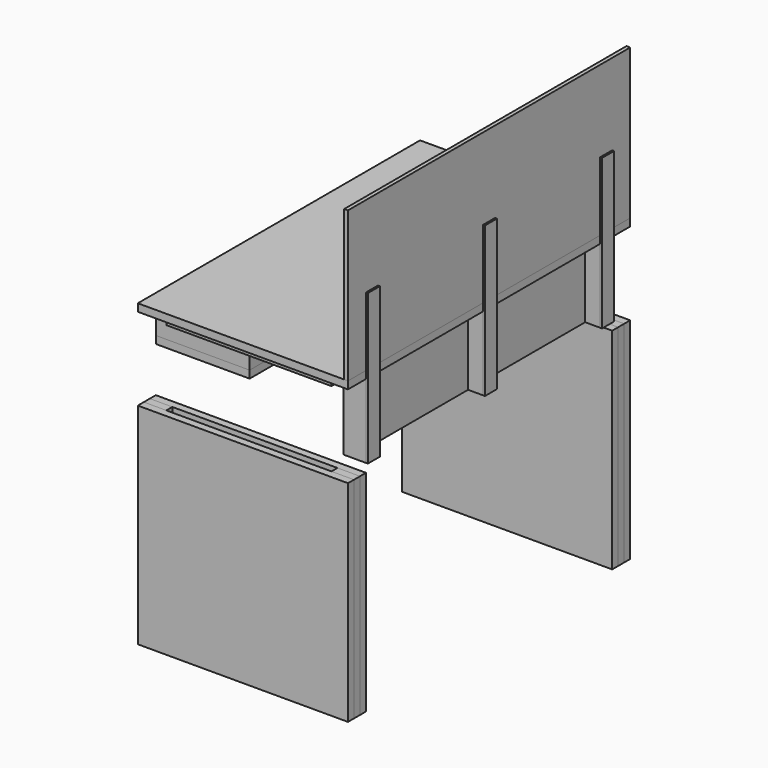
from build123d import *

# Parameters (mm, degrees)
F1_W      = 711.2
F1_H      = 711.2
F2_DEPTH  = 25.4
F5_W      = 76.2
F5_H      = 711.2
F7_DEPTH  = 25.4
F10_W     = 558.8
F10_H     = 25.4
F11_DEPTH = 25.4
F12_W     = 711.2
F12_H     = 1193.8
F12_R     = 25.4
F13_DEPTH = 25.4
F14_W     = 292.1
F14_H     = 25.4
F15_DEPTH = 101.6
F16_W     = 317.5
F16_H     = 1041.4
F17_DEPTH = 25.4
F18_W     = 50.8
F18_H     = 50.8
F19_DEPTH = 250
F20_W     = 1193.8
F20_H     = 508
F21_DEPTH = 12.7
F22_W     = 50.8
F22_H     = 508
F23_DEPTH = 6.35
F24_W     = 38.1
F24_H     = 1041.4
F25_DEPTH = 38.1


with BuildPart() as f2:
    # F1 (on offset) → F2 (new body)
    with BuildSketch(Plane.XZ.offset(571.5)):
        Rectangle(F1_W, F1_H)
    extrude(amount=F2_DEPTH)


with BuildPart() as f6_1:
    # F6: instance of F2
    add(f2.part.mirror(Plane.XZ.offset(558.8)))


with BuildPart() as f7:
    # F5 (on offset) → F7 (new body)
    with BuildSketch(Plane(origin=(0, -571.5, 0), x_dir=(1, 0, 0), z_dir=(0, 1, 0))):
        with Locations((-317.5, 0)):
            Rectangle(F5_W, F5_H)
        with Locations((317.5, 0)):
            Rectangle(F5_W, F5_H)
    extrude(amount=F7_DEPTH)


with BuildPart() as f8_1:
    # F8: instance of F2
    add(f2.part.mirror(Plane.XZ))


with BuildPart() as f8_2:
    # F8: instance of F7
    add(f7.part.mirror(Plane.XZ))


with BuildPart() as f8_3:
    # F8: instance of F6_1
    add(f6_1.part.mirror(Plane.XZ))


with BuildPart() as f11:
    # F10 (on offset) → F11 (new body)
    with BuildSketch(Plane.XY.offset(635)):
        with Locations((0, -558.8)):
            Rectangle(F10_W, F10_H)
        with Locations((0, 558.8)):
            Rectangle(F10_W, F10_H)
    extrude(amount=-F11_DEPTH)

    # F12 (on face) → F13 (join)
    with BuildSketch(Plane.XY.offset(635)):
        Rectangle(F12_W, F12_H)
        with Locations((254, 0)):
            Circle(F12_R, mode=Mode.SUBTRACT)
    extrude(amount=F13_DEPTH)


with BuildPart() as f15:
    # F14 (on face) → F15 (new body)
    with BuildSketch(Plane(origin=(0, 0, 635), x_dir=(1, 0, 0), z_dir=(0, 0, -1))):
        Polygon((-63.5, -520.7), (-38.1, -520.7), (-38.1, 520.7), (-63.5, 520.7), (-63.5, 495.3), (-63.5, 0), (-63.5, -495.3), align=None)
        with Locations((-209.55, -508)):
            Rectangle(F14_W, F14_H)
        with Locations((-209.55, 508)):
            Rectangle(F14_W, F14_H)
    extrude(amount=F15_DEPTH)


with BuildPart() as f17:
    # F16 (on face) → F17 (new body)
    with BuildSketch(Plane(origin=(0, 0, 533.4), x_dir=(1, 0, 0), z_dir=(0, 0, -1))):
        with Locations((-196.85, 0)):
            Rectangle(F16_W, F16_H)
    extrude(amount=F17_DEPTH)


with BuildPart() as f19:
    # F18 (on face) → F19 (new body)
    with BuildSketch(Plane(origin=(0, 0, 635), x_dir=(1, 0, 0), z_dir=(0, 0, -1))):
        Polygon((279.4, 520.7), (279.4, -520.7), (304.8, -520.7), (304.8, -469.9), (304.8, -25.4), (304.8, 25.4), (304.8, 469.9), (304.8, 520.7), align=None)
        with Locations((330.2, -495.3)):
            Rectangle(F18_W, F18_H)
        with Locations((330.2, 495.3)):
            Rectangle(F18_W, F18_H)
        with Locations((330.2, 0)):
            Rectangle(F18_W, F18_H)
    extrude(amount=F19_DEPTH)


with BuildPart() as f21:
    # F20 (on face) → F21 (new body)
    with BuildSketch(Plane.YZ.offset(355.6)):
        with Locations((0, 914.4)):
            Rectangle(F20_W, F20_H)
    extrude(amount=-F21_DEPTH)


with BuildPart() as f23:
    # F22 (on face) → F23 (new body)
    with BuildSketch(Plane.YZ.offset(355.6)):
        with Locations((0, 639)):
            Rectangle(F22_W, F22_H)
        with Locations((495.3, 639)):
            Rectangle(F22_W, F22_H)
        with Locations((-495.3, 639)):
            Rectangle(F22_W, F22_H)
    extrude(amount=F23_DEPTH)


with BuildPart() as f25:
    # F24 (on face) → F25 (new body)
    with BuildSketch(Plane(origin=(0, 0, 635), x_dir=(1, 0, 0), z_dir=(0, 0, -1))):
        with Locations((-19.05, 0)):
            Rectangle(F24_W, F24_H)
    extrude(amount=F25_DEPTH)


solid = Compound([f2.part, f6_1.part, f7.part, f8_1.part, f8_2.part, f8_3.part, f11.part, f15.part, f17.part, f19.part, f21.part, f23.part, f25.part])
